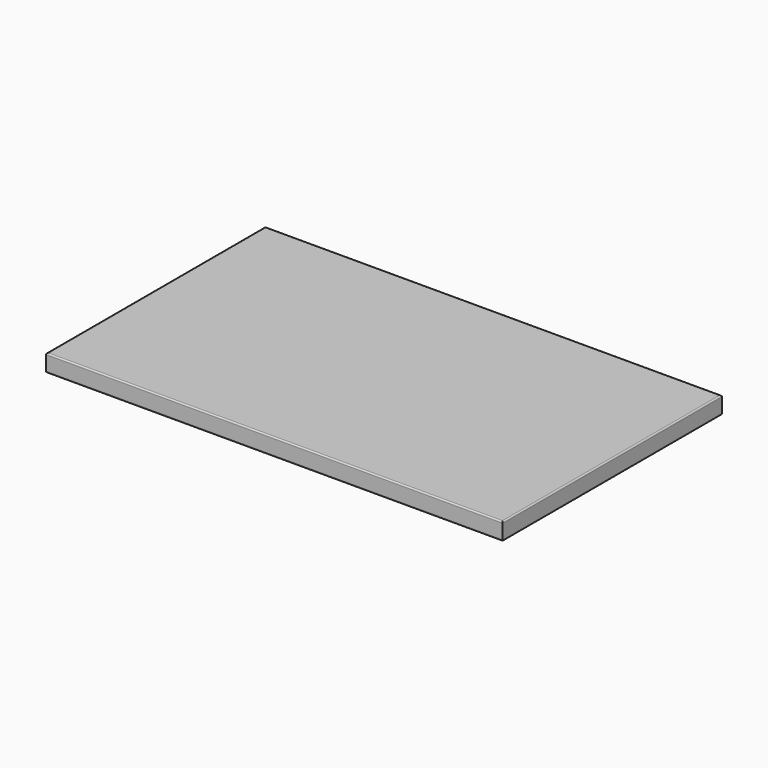
from build123d import *

# Parameters (mm, degrees)
F0_W     = 1000
F0_H     = 600
F1_DEPTH = 38
F2_R     = 3
F3_R     = 4
F4_DEPTH = 16


with BuildPart() as f1:
    # F0 (on Top) → F1 (new body)
    with BuildSketch(Plane.XY):
        Rectangle(F0_W, F0_H)
    extrude(amount=F1_DEPTH)

    # F2
    f2_edges = [f1.edges().sort_by_distance(p)[0] for p in [
        (0, 300, 38),
        (500, 0, 38),
        (0, -300, 38),
        (-500, 0, 38),
        (500, 0, 0),
        (0, 300, 0),
        (-500, 0, 0),
        (0, -300, 0),
    ]]
    fillet(f2_edges, radius=F2_R)

    # F3 (on face) → F4 (cut)
    with BuildSketch(Plane(origin=(0, 0, 0), x_dir=(1, 0, 0), z_dir=(0, 0, -1))):
        with Locations((-345, 275)):
            Circle(F3_R)
        with Locations((0, 275)):
            Circle(F3_R)
        with Locations((345, 275)):
            Circle(F3_R)
        with Locations((345, -275)):
            Circle(F3_R)
        with Locations((0, -275)):
            Circle(F3_R)
        with Locations((-345, -275)):
            Circle(F3_R)
        with Locations((-475, 0)):
            Circle(F3_R)
        with Locations((-475, -195)):
            Circle(F3_R)
        with Locations((-475, 195)):
            Circle(F3_R)
        with Locations((475, 195)):
            Circle(F3_R)
        with Locations((475, 0)):
            Circle(F3_R)
        with Locations((475, -195)):
            Circle(F3_R)
    extrude(amount=-F4_DEPTH, mode=Mode.SUBTRACT)


solid = f1.part
